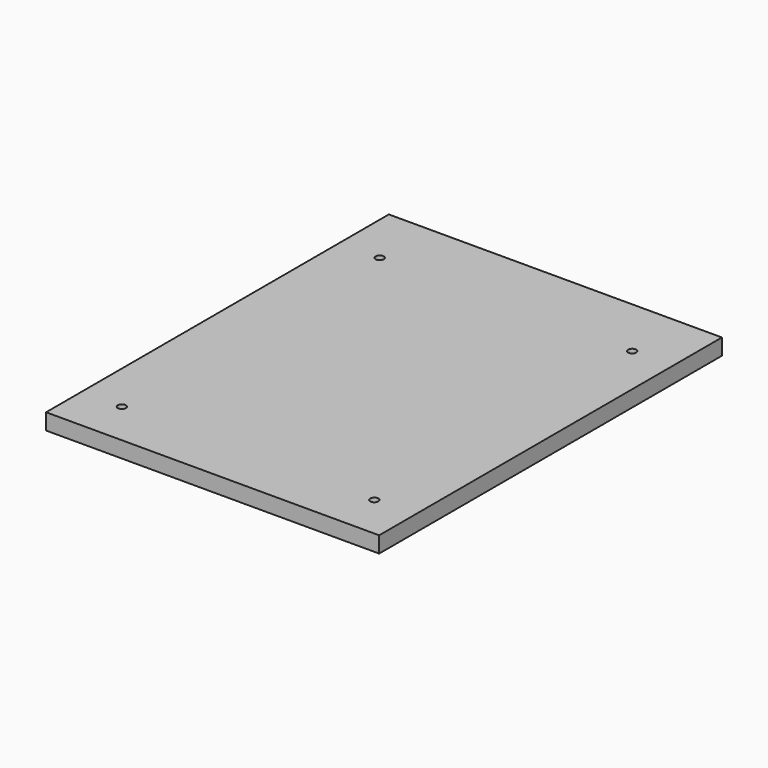
from build123d import *

# Parameters (mm, degrees)
F0_W     = 124
F0_H     = 159.5
F0_R     = 1.5
F1_DEPTH = 6
F2_DEPTH = 3


with BuildPart() as f1:
    # F0 (on Top) → F1 (new body)
    with BuildSketch(Plane.XY):
        Rectangle(F0_W, F0_H)
        with Locations((-47, -63.25)):
            Circle(F0_R, mode=Mode.SUBTRACT)
        with Locations((47, -63.25)):
            Circle(F0_R, mode=Mode.SUBTRACT)
        with Locations((-47, 56.75)):
            Circle(F0_R, mode=Mode.SUBTRACT)
        with BuildLine():
            ThreePointArc((6.538348, -2.5), (-7, 0), (6.538348, 2.5))
            Line((6.538348, 2.5), (9.5, 2.5))
            Line((9.5, 2.5), (9.5, 0))
            Line((9.5, 0), (9.5, -2.5))
            Line((9.5, -2.5), (6.538348, -2.5))
        make_face(mode=Mode.SUBTRACT)
        with Locations((47, 56.75)):
            Circle(F0_R, mode=Mode.SUBTRACT)
        with BuildLine():
            ThreePointArc((6.538348, -2.5), (6.88362, -1.271134), (7, 0))
            ThreePointArc((7, 0), (6.88362, 1.271134), (6.538348, 2.5))
            ThreePointArc((6.538348, 2.5), (-7, 0), (6.538348, -2.5))
        make_face()
        with BuildLine():
            ThreePointArc((6.538348, 2.5), (6.88362, 1.271134), (7, 0))
            ThreePointArc((7, 0), (6.88362, -1.271134), (6.538348, -2.5))
            Line((6.538348, -2.5), (9.5, -2.5))
            Line((9.5, -2.5), (9.5, 0))
            Line((9.5, 0), (9.5, 2.5))
            Line((9.5, 2.5), (6.538348, 2.5))
        make_face()
    extrude(amount=F1_DEPTH)

    # F0 (on Top) → F2 (cut)
    with BuildSketch(Plane.XY):
        with BuildLine():
            ThreePointArc((6.538348, -2.5), (6.88362, -1.271134), (7, 0))
            ThreePointArc((7, 0), (6.88362, 1.271134), (6.538348, 2.5))
            ThreePointArc((6.538348, 2.5), (-7, 0), (6.538348, -2.5))
        make_face()
        with BuildLine():
            ThreePointArc((6.538348, 2.5), (6.88362, 1.271134), (7, 0))
            ThreePointArc((7, 0), (6.88362, -1.271134), (6.538348, -2.5))
            Line((6.538348, -2.5), (9.5, -2.5))
            Line((9.5, -2.5), (9.5, 0))
            Line((9.5, 0), (9.5, 2.5))
            Line((9.5, 2.5), (6.538348, 2.5))
        make_face()
    extrude(amount=F2_DEPTH, mode=Mode.SUBTRACT)


solid = f1.part
